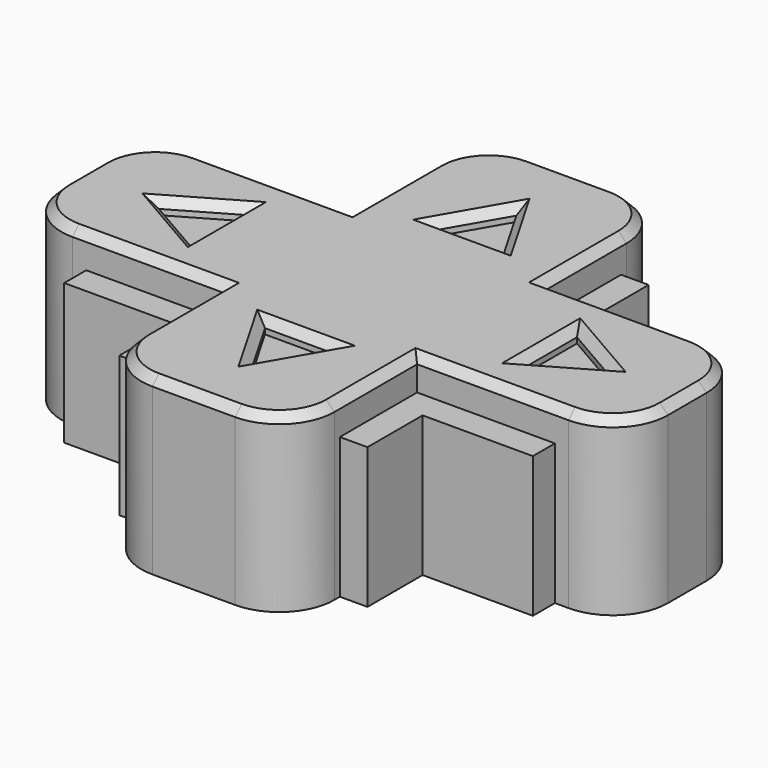
from build123d import *

# Parameters (mm, degrees)
PAD025_DEPTH    = 12.6
PAD026_DEPTH    = 10.2
POCKET012_DEPTH = 1
SKETCH058_R     = 2.2
POCKET022_DEPTH = 6
CHAMFER002_SIZE = 0.6


with BuildPart() as part:
    # Sketch039 → Pad025 (new body)
    with BuildSketch(Plane.XY.offset(14.6)):
        with BuildLine():
            Line((-3, -11.5), (3, -11.5))
            ThreePointArc((7, -15.5), (5.828427, -12.671573), (3, -11.5))
            Line((7, -15.5), (7, -23))
            Line((7, -23), (18, -23))
            ThreePointArc((22, -27), (20.828427, -24.171573), (18, -23))
            Line((22, -27), (22, -30.5))
            ThreePointArc((18, -34.5), (20.828427, -33.328427), (22, -30.5))
            Line((18, -34.5), (7, -34.5))
            Line((7, -34.5), (7, -42))
            ThreePointArc((3, -46), (5.828427, -44.828427), (7, -42))
            Line((3, -46), (-3, -46))
            ThreePointArc((-7, -42), (-5.828427, -44.828427), (-3, -46))
            Line((-7, -42), (-7, -34.5))
            Line((-7, -34.5), (-18, -34.5))
            ThreePointArc((-22, -30.5), (-20.828427, -33.328427), (-18, -34.5))
            Line((-22, -30.5), (-22, -27))
            ThreePointArc((-18, -23), (-20.828427, -24.171573), (-22, -27))
            Line((-18, -23), (-7, -23))
            Line((-7, -23), (-7, -15.5))
            ThreePointArc((-3, -11.5), (-5.828427, -12.671573), (-7, -15.5))
        make_face()
    extrude(amount=PAD025_DEPTH)

    # Sketch041 (on Face21 of Pad025) → Pad026 (join)
    with BuildSketch(Plane(origin=(0, 0, 14.6), x_dir=(1, 0, 0), z_dir=(0, 0, -1))):
        Polygon((-17, 36.5), (-9, 36.5), (-9, 41.5), (9, 41.5), (9, 36.5), (17, 36.5), (17, 21), (9, 21), (9, 16), (-9, 16), (-9, 21), (-17, 21), align=None)
    extrude(amount=-PAD026_DEPTH)

    # Sketch042 (on Face5 of Pad026) → Pocket012 (cut)
    with BuildSketch(Plane.XY.offset(27.2)):
        Polygon((0, -16.75), (-2.5, -21.080127), (2.5, -21.080127), align=None)
        Polygon((-2.5, -36.419873), (2.5, -36.419873), (0, -40.75), align=None)
        Polygon((-16.330127, -28.75), (-12, -26.25), (-12, -31.25), align=None)
        Polygon((12, -26.25), (12, -31.25), (16.330127, -28.75), align=None)
    extrude(amount=-POCKET012_DEPTH, mode=Mode.SUBTRACT)

    # Sketch058 (on Face8 of Pocket012) → Pocket022 (cut)
    with BuildSketch(Plane(origin=(0, 0, 14.6), x_dir=(1, 0, 0), z_dir=(0, 0, -1))):
        with Locations((0, 28.75)):
            Circle(SKETCH058_R)
    extrude(amount=-POCKET022_DEPTH, mode=Mode.SUBTRACT)

    # Chamfer002
    chamfer002_edges = [part.edges().sort_by_distance(p)[0] for p in [
        (-14.165064, -30, 27.2),
        (-14.165064, -27.5, 27.2),
        (-12, -28.75, 27.2),
        (12, -28.75, 27.2),
        (0, -11.5, 27.2),
        (-5.828427, -12.671573, 27.2),
        (5.828427, -12.671573, 27.2),
        (-7, -19.25, 27.2),
        (7, -19.25, 27.2),
        (-12.5, -23, 27.2),
        (12.5, -23, 27.2),
        (-20.828427, -24.171573, 27.2),
        (20.828427, -24.171573, 27.2),
        (-22, -28.75, 27.2),
        (22, -28.75, 27.2),
        (-20.828427, -33.328427, 27.2),
        (20.828427, -33.328427, 27.2),
        (-12.5, -34.5, 27.2),
        (12.5, -34.5, 27.2),
        (-7, -38.25, 27.2),
        (7, -38.25, 27.2),
        (-5.828427, -44.828427, 27.2),
        (5.828427, -44.828427, 27.2),
        (0, -46, 27.2),
        (14.165064, -27.5, 27.2),
        (14.165064, -30, 27.2),
        (1.25, -18.915064, 27.2),
        (0, -21.080127, 27.2),
        (-1.25, -18.915064, 27.2),
        (0, -36.419873, 27.2),
        (1.25, -38.584936, 27.2),
        (-1.25, -38.584936, 27.2),
    ]]
    chamfer(chamfer002_edges, length=CHAMFER002_SIZE)


solid = part.part
